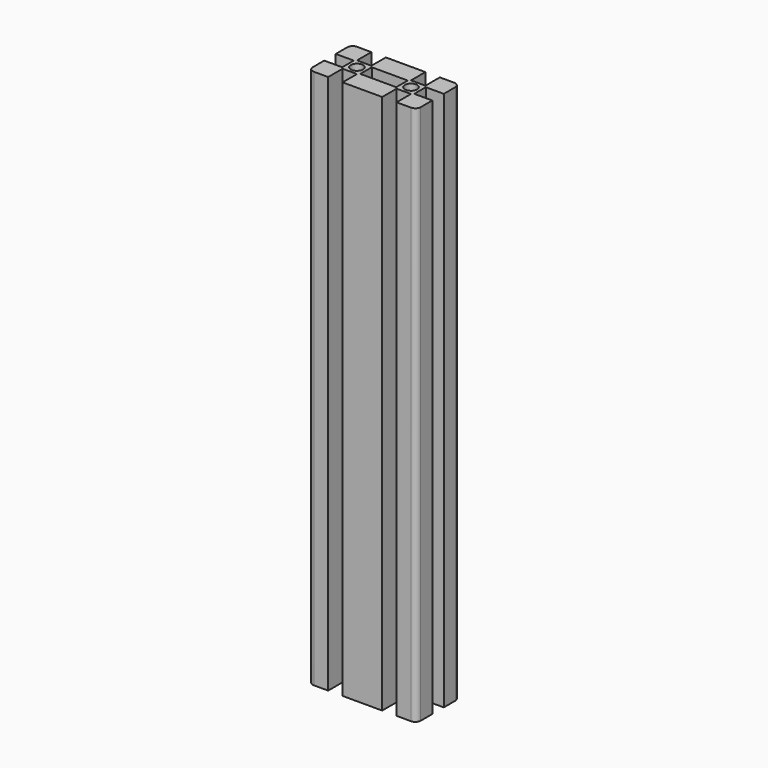
from build123d import *

# Parameters (mm, degrees)
F1_DEPTH = 150
F2_W     = 20
F2_H     = 8
F2_R     = 3.4
F3_DEPTH = 300
F4_R     = 3


with BuildPart() as f1:
    # F0 (on Top) → F1 (new body, symmetric)
    with BuildSketch(Plane.XY):
        Polygon((30, 4), (30, 15), (19, 15), (19, 5), (11, 5), (11, 15), (-11, 15), (-11, 5), (-19, 5), (-19, 15), (-30, 15), (-30, 4), (-20, 4), (-20, -4), (-30, -4), (-30, -15), (-19, -15), (-19, -5), (-11, -5), (-11, -15), (11, -15), (11, -5), (19, -5), (19, -15), (30, -15), (30, -4), (20, -4), (20, 4), align=None)
    extrude(amount=F1_DEPTH, both=True)

    # F2 (on face) → F3 (cut)
    with BuildSketch(Plane.XY.offset(150)):
        Rectangle(F2_W, F2_H)
        with Locations((-15, 0)):
            Circle(F2_R)
        with Locations((15, 0)):
            Circle(F2_R)
    extrude(amount=-F3_DEPTH, mode=Mode.SUBTRACT)

    # F4
    f4_edges = [f1.edges().sort_by_distance(p)[0] for p in [
        (30, -15, 0),
        (30, 15, 0),
        (-30, -15, 0),
        (-30, 15, 0),
    ]]
    fillet(f4_edges, radius=F4_R)


solid = f1.part
